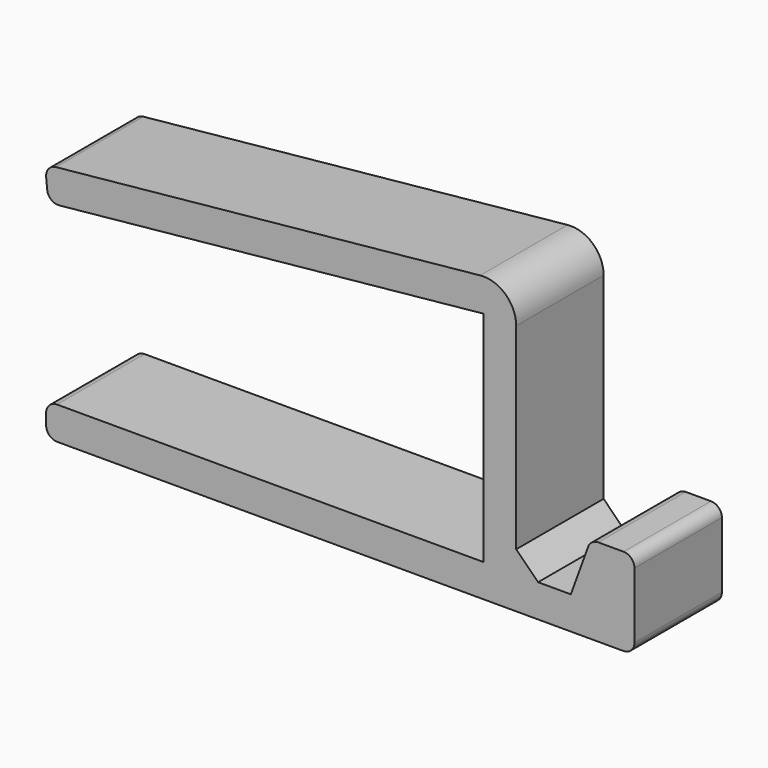
from build123d import *

# Parameters (mm, degrees)
PAD_DEPTH    = 5
FILLET_R     = 3
CHAMFER_SIZE = 2
FILLET001_R  = 1


with BuildPart() as part:
    # Sketch → Pad (new body, symmetric)
    with BuildSketch(Plane.XZ):
        Polygon((-43.099497, 8.82665), (0, 13.158312), (0, -10.158312), (5, -10.158312), (6.819851, -5.158312), (10.819851, -5.158312), (10.819851, -13.158312), (0, -13.158312), (-43, -13.158312), (-43, -10.158312), (-3, -10.158312), (-3, 9.841688), (-42.799497, 5.841688), align=None)
    extrude(amount=PAD_DEPTH, both=True)

    # Fillet
    fillet_edges = [part.edges().sort_by_distance(p)[0] for p in [
        (0, 0, 13.158312),
    ]]
    fillet(fillet_edges, radius=FILLET_R)

    # Chamfer
    chamfer_edges = [part.edges().sort_by_distance(p)[0] for p in [
        (0, 0, -10.158312),
    ]]
    chamfer(chamfer_edges, length=CHAMFER_SIZE)

    # Fillet001
    fillet001_edges = [part.edges().sort_by_distance(p)[0] for p in [
        (-42.799497, 0, 5.841688),
        (-43.099497, 0, 8.82665),
        (-43, 0, -10.158312),
        (-43, 0, -13.158312),
        (10.819851, 0, -5.158312),
        (6.819851, 0, -5.158312),
        (10.819851, 0, -13.158312),
    ]]
    fillet(fillet001_edges, radius=FILLET001_R)


solid = part.part
